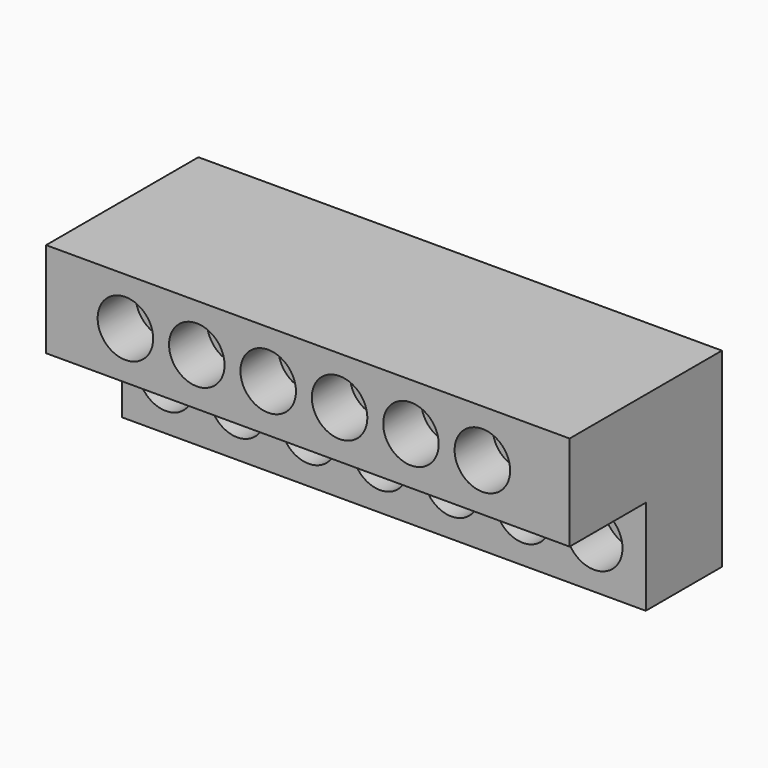
from build123d import *

# Parameters (mm, degrees)
F0_W     = 209.55
F0_H     = 76.2
F1_DEPTH = 76.2
F2_W     = 209.55
F2_H     = 38.1
F3_DEPTH = 38.1
F4_R     = 11.1125
F4_R_2   = 11.325083
F5_DEPTH = 19.05
F6_R     = 11.1125
F7_DEPTH = 19.05


with BuildPart() as f1:
    # F0 (on Front) → F1 (new body)
    with BuildSketch(Plane.XZ):
        with Locations((30.458469, 38.1)):
            Rectangle(F0_W, F0_H)
    extrude(amount=F1_DEPTH)

    # F2 (on face) → F3 (cut)
    with BuildSketch(Plane.XZ.offset(76.2)):
        with Locations((30.458469, 19.05)):
            Rectangle(F2_W, F2_H)
    extrude(amount=-F3_DEPTH, mode=Mode.SUBTRACT)

    # F4 (on face) → F5 (cut)
    with BuildSketch(Plane.XZ.offset(38.1)):
        with Locations((-56.854031, 19.05)):
            Circle(F4_R)
        with Locations((-28.279031, 19.05)):
            Circle(F4_R)
        with Locations((0.295969, 19.05)):
            Circle(F4_R)
        with Locations((57.445969, 19.05)):
            Circle(F4_R)
        with Locations((86.020969, 19.05)):
            Circle(F4_R)
        with Locations((114.595969, 19.05)):
            Circle(F4_R_2)
        with Locations((28.870969, 19.05)):
            Circle(F4_R)
    extrude(amount=-F5_DEPTH, mode=Mode.SUBTRACT)

    # F6 (on face) → F7 (cut)
    with BuildSketch(Plane.XZ.offset(76.2)):
        with Locations((-42.566531, 57.15)):
            Circle(F6_R)
        with Locations((-13.991531, 57.15)):
            Circle(F6_R)
        with Locations((14.583469, 57.15)):
            Circle(F6_R)
        with Locations((43.158469, 57.15)):
            Circle(F6_R)
        with Locations((71.733469, 57.15)):
            Circle(F6_R)
        with Locations((100.308469, 57.15)):
            Circle(F6_R)
    extrude(amount=-F7_DEPTH, mode=Mode.SUBTRACT)


solid = f1.part
